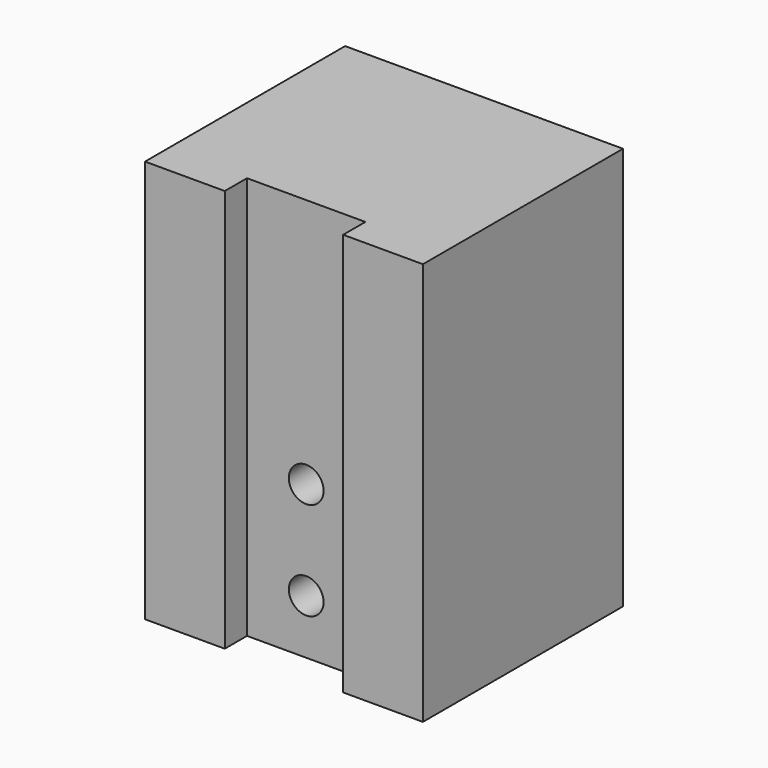
from build123d import *

# Parameters (mm, degrees)
F1_DEPTH = 92.075
F3_D     = 7.9375
F3_DEPTH = 23.7998
F3_TIP   = 2.3846655818


with BuildPart() as f1:
    # F0 (on Top) → F1 (new body)
    with BuildSketch(Plane.XY):
        Polygon((-31.75, 57.15), (-31.75, 0), (-13.5255, 0), (-13.5255, 6.35), (13.5255, 6.35), (13.5255, 0), (31.75, 0), (31.75, 57.15), align=None)
    extrude(amount=F1_DEPTH)

    # F3
    with Locations(Plane.XZ.offset(-6.35)):
        with Locations((0, 34.8742), (0, 12.4714)):
            Hole(F3_D / 2, depth=F3_DEPTH)
            with Locations((0, 0, -(F3_DEPTH + F3_TIP / 2))):  # 118° drill point
                Cone(0, F3_D / 2, F3_TIP, mode=Mode.SUBTRACT)


solid = f1.part
